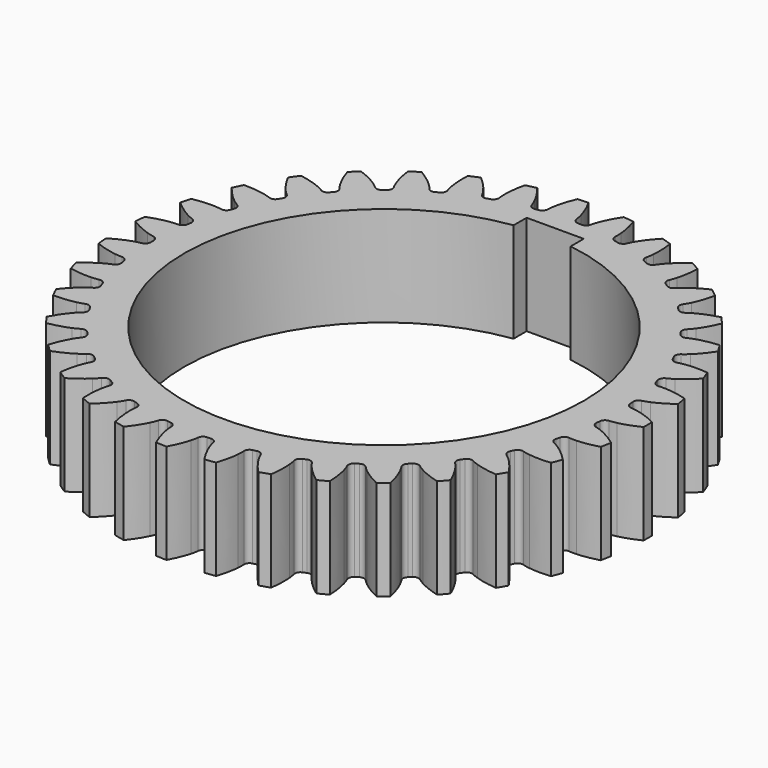
from build123d import *

# Parameters (mm, degrees)
PAD_DEPTH    = 7
POCKET_DEPTH = 7.001


with BuildPart() as part:
    # InvoluteGear001 → Pad (new body)
    with BuildSketch(Plane.XY):
        with BuildLine():
            add(Edge.make_bspline(
                [(16.555812, -0.978688), (16.663709, -0.971002), (16.832613, -0.950837), (17.060106, -0.899614)],
                knots=[0, 0, 0, 0, 1, 1, 1, 1], degree=3))
            add(Edge.make_bspline(
                [(17.060106, -0.899614), (17.412728, -0.820005), (17.899769, -0.667122), (18.496918, -0.374964)],
                knots=[0, 0, 0, 0, 1, 1, 1, 1], degree=3))
            ThreePointArc((18.496918, -0.374964), (18.500359, 0.000134), (18.496194, 0.375226))
            add(Edge.make_bspline(
                [(18.496194, 0.375226), (17.899769, 0.667122), (17.412728, 0.820005), (17.060106, 0.899614)],
                knots=[0, 0, 0, 0, 1, 1, 1, 1], degree=3))
            add(Edge.make_bspline(
                [(17.060106, 0.899614), (16.832613, 0.950837), (16.663709, 0.971002), (16.555944, 0.978673)],
                knots=[0, 0, 0, 0, 1, 1, 1, 1], degree=3))
            ThreePointArc((16.555944, 0.978673), (16.310062, 1.08527), (16.195676, 1.327626))
            ThreePointArc((16.195676, 1.327626), (16.184582, 1.456639), (16.172461, 1.585559))
            ThreePointArc((16.172461, 1.585559), (16.2417, 1.844387), (16.464505, 1.993194))
            add(Edge.make_bspline(
                [(16.464505, 1.993194), (16.569296, 2.020023), (16.731884, 2.070023), (16.946575, 2.161043)],
                knots=[0, 0, 0, 0, 1, 1, 1, 1], degree=3))
            add(Edge.make_bspline(
                [(16.946575, 2.161043), (17.279316, 2.302336), (17.731231, 2.539726), (18.266617, 2.933814)],
                knots=[0, 0, 0, 0, 1, 1, 1, 1], degree=3))
            ThreePointArc((18.266617, 2.933814), (18.203027, 3.303499), (18.131954, 3.671819))
            add(Edge.make_bspline(
                [(18.131954, 3.671819), (17.492993, 3.852528), (16.986481, 3.91599), (16.62531, 3.931356)],
                knots=[0, 0, 0, 0, 1, 1, 1, 1], degree=3))
            add(Edge.make_bspline(
                [(16.62531, 3.931356), (16.392327, 3.941135), (16.222537, 3.930818), (16.115134, 3.919123)],
                knots=[0, 0, 0, 0, 1, 1, 1, 1], degree=3))
            ThreePointArc((16.115134, 3.919123), (15.85417, 3.980103), (15.698348, 4.19814))
            ThreePointArc((15.698348, 4.19814), (15.664396, 4.323099), (15.629451, 4.447783))
            ThreePointArc((15.629451, 4.447783), (15.651361, 4.714814), (15.844015, 4.901014))
            add(Edge.make_bspline(
                [(15.844015, 4.901014), (15.942331, 4.946122), (16.093379, 5.02435), (16.288367, 5.152242)],
                knots=[0, 0, 0, 0, 1, 1, 1, 1], degree=3))
            add(Edge.make_bspline(
                [(16.288367, 5.152242), (16.590532, 5.350677), (16.992797, 5.664945), (17.449212, 6.148296)],
                knots=[0, 0, 0, 0, 1, 1, 1, 1], degree=3))
            ThreePointArc((17.449212, 6.148296), (17.320634, 6.500686), (17.184937, 6.850396))
            add(Edge.make_bspline(
                [(17.184937, 6.850396), (16.523978, 6.914111), (16.014274, 6.886111), (15.656164, 6.836741)],
                knots=[0, 0, 0, 0, 1, 1, 1, 1], degree=3))
            add(Edge.make_bspline(
                [(15.656164, 6.836741), (15.425179, 6.804763), (15.25996, 6.764294), (15.156371, 6.73361)],
                knots=[0, 0, 0, 0, 1, 1, 1, 1], degree=3))
            ThreePointArc((15.156371, 6.73361), (14.888712, 6.747013), (14.696462, 6.933722))
            ThreePointArc((14.696462, 6.933722), (14.640744, 7.050611), (14.584097, 7.167051))
            ThreePointArc((14.584097, 7.167051), (14.557975, 7.433704), (14.714286, 7.65131))
            add(Edge.make_bspline(
                [(14.714286, 7.65131), (14.802967, 7.713249), (14.937619, 7.81719), (15.106638, 7.977844)],
                knots=[0, 0, 0, 0, 1, 1, 1, 1], degree=3))
            add(Edge.make_bspline(
                [(15.106638, 7.977844), (15.368515, 8.227043), (15.708201, 8.608088), (16.070976, 9.165168)],
                knots=[0, 0, 0, 0, 1, 1, 1, 1], degree=3))
            ThreePointArc((16.070976, 9.165168), (15.881542, 9.488936), (15.685583, 9.808797))
            add(Edge.make_bspline(
                [(15.685583, 9.808797), (15.023868, 9.753468), (14.527356, 9.634908), (14.183816, 9.522388)],
                knots=[0, 0, 0, 0, 1, 1, 1, 1], degree=3))
            add(Edge.make_bspline(
                [(14.183816, 9.522388), (13.962253, 9.449679), (13.806915, 9.38036), (13.710469, 9.331672)],
                knots=[0, 0, 0, 0, 1, 1, 1, 1], degree=3))
            ThreePointArc((13.710469, 9.331672), (13.444719, 9.297068), (13.22222, 9.446449))
            ThreePointArc((13.22222, 9.446449), (13.146526, 9.55151), (13.069998, 9.655965))
            ThreePointArc((13.069998, 9.655965), (12.996683, 9.913668), (13.111627, 10.155688))
            add(Edge.make_bspline(
                [(13.111627, 10.155688), (13.187824, 10.232466), (13.301752, 10.35878), (13.439369, 10.547031)],
                knots=[0, 0, 0, 0, 1, 1, 1, 1], degree=3))
            add(Edge.make_bspline(
                [(13.439369, 10.547031), (13.652542, 10.838986), (13.91873, 11.27456), (14.176204, 11.887463)],
                knots=[0, 0, 0, 0, 1, 1, 1, 1], degree=3))
            ThreePointArc((14.176204, 11.887463), (13.932004, 12.172204), (13.682081, 12.451934))
            add(Edge.make_bspline(
                [(13.682081, 12.451934), (13.04088, 12.279341), (12.573516, 12.07403), (12.255588, 11.901977)],
                knots=[0, 0, 0, 0, 1, 1, 1, 1], degree=3))
            add(Edge.make_bspline(
                [(12.255588, 11.901977), (12.050568, 11.790876), (11.910104, 11.694933), (11.823902, 11.629807)],
                knots=[0, 0, 0, 0, 1, 1, 1, 1], degree=3))
            ThreePointArc((11.823902, 11.629807), (11.568601, 11.548307), (11.323005, 11.655559))
            ThreePointArc((11.323005, 11.655559), (11.229768, 11.745417), (11.135818, 11.834528))
            ThreePointArc((11.135818, 11.834528), (11.017668, 12.074998), (11.087549, 12.333653))
            add(Edge.make_bspline(
                [(11.087549, 12.333653), (11.148813, 12.422803), (11.238356, 12.56743), (11.340148, 12.777228)],
                knots=[0, 0, 0, 0, 1, 1, 1, 1], degree=3))
            add(Edge.make_bspline(
                [(11.340148, 12.777228), (11.497764, 13.102554), (11.6819, 13.578659), (11.825798, 14.227686)],
                knots=[0, 0, 0, 0, 1, 1, 1, 1], degree=3))
            ThreePointArc((11.825798, 14.227686), (11.53468, 14.464247), (11.238825, 14.694856))
            add(Edge.make_bspline(
                [(11.238825, 14.694856), (10.638746, 14.410546), (10.215553, 14.125084), (9.933456, 13.899027)],
                knots=[0, 0, 0, 0, 1, 1, 1, 1], degree=3))
            add(Edge.make_bspline(
                [(9.933456, 13.899027), (9.751568, 13.753103), (9.630493, 13.633622), (9.557305, 13.554151)],
                knots=[0, 0, 0, 0, 1, 1, 1, 1], degree=3))
            ThreePointArc((9.557305, 13.554151), (9.320659, 13.428375), (9.059859, 13.49005))
            ThreePointArc((9.059859, 13.49005), (8.952076, 13.561815), (8.843725, 13.632719))
            ThreePointArc((8.843725, 13.632719), (8.684535, 13.848229), (8.707109, 14.115205))
            add(Edge.make_bspline(
                [(8.707109, 14.115205), (8.75147, 14.213861), (8.81375, 14.372152), (8.876445, 14.596754)],
                knots=[0, 0, 0, 0, 1, 1, 1, 1], degree=3))
            add(Edge.make_bspline(
                [(8.876445, 14.596754), (8.973439, 14.944996), (9.069604, 15.446328), (9.095302, 16.110619)],
                knots=[0, 0, 0, 0, 1, 1, 1, 1], degree=3))
            ThreePointArc((9.095302, 16.110619), (8.766622, 16.291397), (8.434345, 16.465474))
            add(Edge.make_bspline(
                [(8.434345, 16.465474), (7.894675, 16.078584), (7.529254, 15.722145), (7.292054, 15.449351)],
                knots=[0, 0, 0, 0, 1, 1, 1, 1], degree=3))
            add(Edge.make_bspline(
                [(7.292054, 15.449351), (7.139145, 15.273295), (7.04135, 15.134115), (6.983528, 15.042853)],
                knots=[0, 0, 0, 0, 1, 1, 1, 1], degree=3))
            ThreePointArc((6.983528, 15.042853), (6.773143, 14.876843), (6.505522, 14.89096))
            ThreePointArc((6.505522, 14.89096), (6.386657, 14.942326), (6.267386, 14.992744))
            ThreePointArc((6.267386, 14.992744), (6.072274, 15.176366), (6.046815, 15.443082))
            add(Edge.make_bspline(
                [(6.046815, 15.443082), (6.072847, 15.548073), (6.105863, 15.714941), (6.127446, 15.947129)],
                knots=[0, 0, 0, 0, 1, 1, 1, 1], degree=3))
            add(Edge.make_bspline(
                [(6.127446, 15.947129), (6.1607, 16.307093), (6.165803, 16.81754), (6.072474, 17.475744)],
                knots=[0, 0, 0, 0, 1, 1, 1, 1], degree=3))
            ThreePointArc((6.072474, 17.475744), (5.716798, 17.594928), (5.358778, 17.706877))
            add(Edge.make_bspline(
                [(5.358778, 17.706877), (4.896862, 17.229844), (4.600958, 16.813884), (4.416279, 16.50312)],
                knots=[0, 0, 0, 0, 1, 1, 1, 1], degree=3))
            add(Edge.make_bspline(
                [(4.416279, 16.50312), (4.297264, 16.302591), (4.225892, 16.148185), (4.185295, 16.048065)],
                knots=[0, 0, 0, 0, 1, 1, 1, 1], degree=3))
            ThreePointArc((4.185295, 16.048065), (4.007933, 15.847157), (3.742092, 15.813262))
            ThreePointArc((3.742092, 15.813262), (3.615965, 15.842579), (3.489609, 15.870889))
            ThreePointArc((3.489609, 15.870889), (3.264846, 16.016722), (3.192172, 16.274606))
            add(Edge.make_bspline(
                [(3.192172, 16.274606), (3.199038, 16.382558), (3.201728, 16.55264), (3.181506, 16.784949)],
                knots=[0, 0, 0, 0, 1, 1, 1, 1], degree=3))
            add(Edge.make_bspline(
                [(3.181506, 16.784949), (3.149951, 17.145067), (3.063829, 17.648221), (2.854473, 18.279183)],
                knots=[0, 0, 0, 0, 1, 1, 1, 1], degree=3))
            ThreePointArc((2.854473, 18.279183), (2.483231, 18.332944), (2.110975, 18.379167))
            add(Edge.make_bspline(
                [(2.110975, 18.379167), (1.74166, 17.827321), (1.524784, 17.365211), (1.398562, 17.026466)],
                knots=[0, 0, 0, 0, 1, 1, 1, 1], degree=3))
            add(Edge.make_bspline(
                [(1.398562, 17.026466), (1.317265, 16.807907), (1.27461, 16.643239), (1.252542, 16.537479)],
                knots=[0, 0, 0, 0, 1, 1, 1, 1], degree=3))
            ThreePointArc((1.252542, 16.537479), (1.113905, 16.308131), (0.858388, 16.227312))
            ThreePointArc((0.858388, 16.227312), (0.729053, 16.233637), (0.599673, 16.238931))
            ThreePointArc((0.599673, 16.238931), (0.352482, 16.342287), (0.234929, 16.58305))
            add(Edge.make_bspline(
                [(0.234929, 16.58305), (0.22241, 16.690494), (0.194687, 16.858322), (0.133309, 17.083288)],
                knots=[0, 0, 0, 0, 1, 1, 1, 1], degree=3))
            add(Edge.make_bspline(
                [(0.133309, 17.083288), (0.03796, 17.431984), (-0.13662, 17.911675), (-0.455274, 18.495115)],
                knots=[0, 0, 0, 0, 1, 1, 1, 1], degree=3))
            ThreePointArc((-0.455274, 18.495115), (-0.83015, 18.481724), (-1.204676, 18.460735))
            add(Edge.make_bspline(
                [(-1.204676, 18.460735), (-1.46952, 17.851814), (-1.600398, 17.358405), (-1.664106, 17.002566)],
                knots=[0, 0, 0, 0, 1, 1, 1, 1], degree=3))
            add(Edge.make_bspline(
                [(-1.664106, 17.002566), (-1.705071, 16.773004), (-1.717639, 16.603366), (-1.720467, 16.495365)],
                knots=[0, 0, 0, 0, 1, 1, 1, 1], degree=3))
            ThreePointArc((-1.720467, 16.495365), (-1.815925, 16.244948), (-2.052905, 16.119804))
            ThreePointArc((-2.052905, 16.119804), (-2.181291, 16.102934), (-2.309537, 16.085041))
            ThreePointArc((-2.309537, 16.085041), (-2.571211, 16.142598), (-2.729864, 16.358502))
            add(Edge.make_bspline(
                [(-2.729864, 16.358502), (-2.761367, 16.461983), (-2.818612, 16.622165), (-2.919172, 16.832556)],
                knots=[0, 0, 0, 0, 1, 1, 1, 1], degree=3))
            add(Edge.make_bspline(
                [(-2.919172, 16.832556), (-3.075251, 17.158623), (-3.332677, 17.599433), (-3.750388, 18.116599)],
                knots=[0, 0, 0, 0, 1, 1, 1, 1], degree=3))
            ThreePointArc((-3.750388, 18.116599), (-4.116848, 18.036486), (-4.481608, 17.948961))
            add(Edge.make_bspline(
                [(-4.481608, 17.948961), (-4.633469, 17.302535), (-4.674142, 16.793686), (-4.673289, 16.43219)],
                knots=[0, 0, 0, 0, 1, 1, 1, 1], degree=3))
            add(Edge.make_bspline(
                [(-4.673289, 16.43219), (-4.672606, 16.199003), (-4.654681, 16.029847), (-4.63818, 15.923076)],
                knots=[0, 0, 0, 0, 1, 1, 1, 1], degree=3))
            ThreePointArc((-4.63818, 15.923076), (-4.68739, 15.659639), (-4.898216, 15.494192))
            ThreePointArc((-4.898216, 15.494192), (-5.021526, 15.454668), (-5.144517, 15.414164))
            ThreePointArc((-5.144517, 15.414164), (-5.412262, 15.424072), (-5.606918, 15.608178))
            add(Edge.make_bspline(
                [(-5.606918, 15.608178), (-5.656392, 15.704371), (-5.741317, 15.851757), (-5.877829, 16.040812)],
                knots=[0, 0, 0, 0, 1, 1, 1, 1], degree=3))
            add(Edge.make_bspline(
                [(-5.877829, 16.040812), (-6.089621, 16.333769), (-6.42162, 16.72153), (-6.924962, 17.1558)],
                knots=[0, 0, 0, 0, 1, 1, 1, 1], degree=3))
            ThreePointArc((-6.924962, 17.1558), (-7.271228, 17.011541), (-7.614498, 16.860291))
            add(Edge.make_bspline(
                [(-7.614498, 16.860291), (-7.648494, 16.197139), (-7.597655, 15.689205), (-7.532268, 15.33367)],
                knots=[0, 0, 0, 0, 1, 1, 1, 1], degree=3))
            add(Edge.make_bspline(
                [(-7.532268, 15.33367), (-7.489959, 15.104352), (-7.442118, 14.941115), (-7.406817, 14.839007)],
                knots=[0, 0, 0, 0, 1, 1, 1, 1], degree=3))
            ThreePointArc((-7.406817, 14.839007), (-7.408198, 14.571017), (-7.586095, 14.370583))
            ThreePointArc((-7.586095, 14.370583), (-7.700366, 14.309677), (-7.814148, 14.247863))
            ThreePointArc((-7.814148, 14.247863), (-8.079359, 14.209804), (-8.30376, 14.356195))
            add(Edge.make_bspline(
                [(-8.30376, 14.356195), (-8.369615, 14.442008), (-8.479493, 14.571861), (-8.647567, 14.733502)],
                knots=[0, 0, 0, 0, 1, 1, 1, 1], degree=3))
            add(Edge.make_bspline(
                [(-8.647567, 14.733502), (-8.908265, 14.983935), (-9.304166, 15.306184), (-9.876961, 15.643599)],
                knots=[0, 0, 0, 0, 1, 1, 1, 1], degree=3))
            ThreePointArc((-9.876961, 15.643599), (-10.191904, 15.439831), (-10.502651, 15.229718))
            add(Edge.make_bspline(
                [(-10.502651, 15.229718), (-10.417691, 14.571153), (-10.276973, 14.080459), (-10.149154, 13.742313)],
                knots=[0, 0, 0, 0, 1, 1, 1, 1], degree=3))
            add(Edge.make_bspline(
                [(-10.149154, 13.742313), (-10.066578, 13.524235), (-9.990359, 13.372164), (-9.937394, 13.278)],
                knots=[0, 0, 0, 0, 1, 1, 1, 1], degree=3))
            ThreePointArc((-9.937394, 13.278), (-9.890901, 13.01407), (-10.03015, 12.785093))
            ThreePointArc((-10.03015, 12.785093), (-10.131709, 12.704762), (-10.232625, 12.623624))
            ThreePointArc((-10.232625, 12.623624), (-10.486779, 12.538822), (-10.733713, 12.642791))
            add(Edge.make_bspline(
                [(-10.733713, 12.642791), (-10.813832, 12.715467), (-10.94513, 12.823614), (-11.139366, 12.952646)],
                knots=[0, 0, 0, 0, 1, 1, 1, 1], degree=3))
            add(Edge.make_bspline(
                [(-11.139366, 12.952646), (-11.440591, 13.152505), (-11.887669, 13.398884), (-12.511507, 13.628601)],
                knots=[0, 0, 0, 0, 1, 1, 1, 1], degree=3))
            ThreePointArc((-12.511507, 13.628601), (-12.785004, 13.371872), (-13.05324, 13.10965))
            add(Edge.make_bspline(
                [(-13.05324, 13.10965), (-12.852054, 12.476838), (-12.625981, 12.019156), (-12.439838, 11.709267)],
                knots=[0, 0, 0, 0, 1, 1, 1, 1], degree=3))
            add(Edge.make_bspline(
                [(-12.439838, 11.709267), (-12.31965, 11.509438), (-12.217502, 11.37342), (-12.148574, 11.290227)],
                knots=[0, 0, 0, 0, 1, 1, 1, 1], degree=3))
            ThreePointArc((-12.148574, 11.290227), (-12.055702, 11.03884), (-12.151828, 10.788678))
            ThreePointArc((-12.151828, 10.788678), (-12.237411, 10.691504), (-12.322218, 10.593651))
            ThreePointArc((-12.322218, 10.593651), (-12.557146, 10.464831), (-12.818675, 10.523038))
            add(Edge.make_bspline(
                [(-12.818675, 10.523038), (-12.910483, 10.58024), (-13.058982, 10.663204), (-13.273136, 10.755481)],
                knots=[0, 0, 0, 0, 1, 1, 1, 1], degree=3))
            add(Edge.make_bspline(
                [(-13.273136, 10.755481), (-13.605206, 10.898343), (-14.089093, 11.060933), (-14.743922, 11.175568)],
                knots=[0, 0, 0, 0, 1, 1, 1, 1], degree=3))
            ThreePointArc((-14.743922, 11.175568), (-14.967184, 10.87413), (-15.184288, 10.568226))
            add(Edge.make_bspline(
                [(-15.184288, 10.568226), (-14.873341, 9.981507), (-14.56918, 9.571547), (-14.330695, 9.299876)],
                knots=[0, 0, 0, 0, 1, 1, 1, 1], degree=3))
            add(Edge.make_bspline(
                [(-14.330695, 9.299876), (-14.176757, 9.124718), (-14.051965, 9.009125), (-13.96929, 8.939576)],
                knots=[0, 0, 0, 0, 1, 1, 1, 1], degree=3))
            ThreePointArc((-13.96929, 8.939576), (-13.833023, 8.708812), (-13.882936, 8.445507))
            ThreePointArc((-13.882936, 8.445507), (-13.949793, 8.334613), (-14.015764, 8.22319))
            ThreePointArc((-14.015764, 8.22319), (-14.223915, 8.054492), (-14.491635, 8.065065))
            add(Edge.make_bspline(
                [(-14.491635, 8.065065), (-14.592181, 8.104955), (-14.753107, 8.160071), (-14.980296, 8.212626)],
                knots=[0, 0, 0, 0, 1, 1, 1, 1], degree=3))
            add(Edge.make_bspline(
                [(-14.980296, 8.212626), (-15.332539, 8.293898), (-15.837681, 8.367475), (-16.502456, 8.363343)],
                knots=[0, 0, 0, 0, 1, 1, 1, 1], degree=3))
            ThreePointArc((-16.502456, 8.363343), (-16.668306, 8.026884), (-16.8273, 7.687131))
            add(Edge.make_bspline(
                [(-16.8273, 7.687131), (-16.416588, 7.165362), (-16.044113, 6.816301), (-15.760952, 6.591579)],
                knots=[0, 0, 0, 0, 1, 1, 1, 1], degree=3))
            add(Edge.make_bspline(
                [(-15.760952, 6.591579), (-15.578212, 6.446723), (-15.434785, 6.35527), (-15.34102, 6.301601)],
                knots=[0, 0, 0, 0, 1, 1, 1, 1], degree=3))
            ThreePointArc((-15.34102, 6.301601), (-15.165739, 6.098876), (-15.167835, 5.830891))
            ThreePointArc((-15.167835, 5.830891), (-15.213817, 5.709841), (-15.258832, 5.588429))
            ThreePointArc((-15.258832, 5.588429), (-15.433516, 5.385275), (-15.698821, 5.347875))
            add(Edge.make_bspline(
                [(-15.698821, 5.347875), (-15.804875, 5.36917), (-15.973056, 5.394666), (-16.205978, 5.405811)],
                knots=[0, 0, 0, 0, 1, 1, 1, 1], degree=3))
            add(Edge.make_bspline(
                [(-16.205978, 5.405811), (-16.567072, 5.422881), (-17.077233, 5.405079), (-17.730587, 5.282313)],
                knots=[0, 0, 0, 0, 1, 1, 1, 1], degree=3))
            ThreePointArc((-17.730587, 5.282313), (-17.833695, 4.921648), (-17.929468, 4.558966))
            add(Edge.make_bspline(
                [(-17.929468, 4.558966), (-17.432191, 4.118917), (-17.003375, 3.841973), (-16.684639, 3.671423)],
                knots=[0, 0, 0, 0, 1, 1, 1, 1], degree=3))
            add(Edge.make_bspline(
                [(-16.684639, 3.671423), (-16.478971, 3.561524), (-16.321519, 3.497151), (-16.219678, 3.461086)],
                knots=[0, 0, 0, 0, 1, 1, 1, 1], degree=3))
            ThreePointArc((-16.219678, 3.461086), (-16.011016, 3.292918), (-15.965227, 3.028864))
            ThreePointArc((-15.965227, 3.028864), (-15.988856, 2.90155), (-16.011469, 2.774051))
            ThreePointArc((-16.011469, 2.774051), (-16.147071, 2.542971), (-16.401435, 2.4588))
            add(Edge.make_bspline(
                [(-16.401435, 2.4588), (-16.509586, 2.460816), (-16.679617, 2.455873), (-16.910786, 2.425248)],
                knots=[0, 0, 0, 0, 1, 1, 1, 1], degree=3))
            add(Edge.make_bspline(
                [(-16.910786, 2.425248), (-17.269125, 2.377569), (-17.767909, 2.268959), (-18.388843, 2.031506)],
                knots=[0, 0, 0, 0, 1, 1, 1, 1], degree=3))
            ThreePointArc((-18.388843, 2.031506), (-18.425894, 1.658226), (-18.455369, 1.284271))
            add(Edge.make_bspline(
                [(-18.455369, 1.284271), (-17.88751, 0.940087), (-17.416134, 0.744161), (-17.072067, 0.633264)],
                knots=[0, 0, 0, 0, 1, 1, 1, 1], degree=3))
            add(Edge.make_bspline(
                [(-17.072067, 0.633264), (-16.850082, 0.561855), (-16.683666, 0.52663), (-16.577022, 0.50933)],
                knots=[0, 0, 0, 0, 1, 1, 1, 1], degree=3))
            ThreePointArc((-16.577022, 0.50933), (-16.341685, 0.381122), (-16.249484, 0.129488))
            ThreePointArc((-16.249484, 0.129488), (-16.25, 0), (-16.249484, -0.129488))
            ThreePointArc((-16.249484, -0.129488), (-16.341645, -0.381067), (-16.576892, -0.509303))
            add(Edge.make_bspline(
                [(-16.576892, -0.509303), (-16.683666, -0.52663), (-16.850082, -0.561855), (-17.072067, -0.633264)],
                knots=[0, 0, 0, 0, 1, 1, 1, 1], degree=3))
            add(Edge.make_bspline(
                [(-17.072067, -0.633264), (-17.416134, -0.744161), (-17.88751, -0.940087), (-18.456066, -1.284596)],
                knots=[0, 0, 0, 0, 1, 1, 1, 1], degree=3))
            ThreePointArc((-18.456066, -1.284596), (-18.42587, -1.658493), (-18.388099, -2.031701))
            add(Edge.make_bspline(
                [(-18.388099, -2.031701), (-17.767909, -2.268959), (-17.269125, -2.377569), (-16.910786, -2.425248)],
                knots=[0, 0, 0, 0, 1, 1, 1, 1], degree=3))
            add(Edge.make_bspline(
                [(-16.910786, -2.425248), (-16.679617, -2.455873), (-16.509586, -2.460816), (-16.401567, -2.458797)],
                knots=[0, 0, 0, 0, 1, 1, 1, 1], degree=3))
            ThreePointArc((-16.401567, -2.458797), (-16.14712, -2.542924), (-16.011469, -2.774051))
            ThreePointArc((-16.011469, -2.774051), (-15.988856, -2.90155), (-15.965227, -3.028864))
            ThreePointArc((-15.965227, -3.028864), (-16.010986, -3.292856), (-16.219555, -3.461037))
            add(Edge.make_bspline(
                [(-16.219555, -3.461037), (-16.321519, -3.497151), (-16.478971, -3.561524), (-16.684639, -3.671423)],
                knots=[0, 0, 0, 0, 1, 1, 1, 1], degree=3))
            add(Edge.make_bspline(
                [(-16.684639, -3.671423), (-17.003375, -3.841973), (-17.432191, -4.118917), (-17.930096, -4.55941)],
                knots=[0, 0, 0, 0, 1, 1, 1, 1], degree=3))
            ThreePointArc((-17.930096, -4.55941), (-17.833623, -4.921907), (-17.729821, -5.282373))
            add(Edge.make_bspline(
                [(-17.729821, -5.282373), (-17.077233, -5.405079), (-16.567072, -5.422881), (-16.205978, -5.405811)],
                knots=[0, 0, 0, 0, 1, 1, 1, 1], degree=3))
            add(Edge.make_bspline(
                [(-16.205978, -5.405811), (-15.973056, -5.394666), (-15.804875, -5.36917), (-15.698952, -5.347896)],
                knots=[0, 0, 0, 0, 1, 1, 1, 1], degree=3))
            ThreePointArc((-15.698952, -5.347896), (-15.433572, -5.385237), (-15.258832, -5.588429))
            ThreePointArc((-15.258832, -5.588429), (-15.213817, -5.709841), (-15.167835, -5.830891))
            ThreePointArc((-15.167835, -5.830891), (-15.165721, -6.098811), (-15.340908, -6.30153))
            add(Edge.make_bspline(
                [(-15.340908, -6.30153), (-15.434785, -6.35527), (-15.578212, -6.446723), (-15.760952, -6.591579)],
                knots=[0, 0, 0, 0, 1, 1, 1, 1], degree=3))
            add(Edge.make_bspline(
                [(-15.760952, -6.591579), (-16.044113, -6.816301), (-16.416588, -7.165362), (-16.827838, -7.687681)],
                knots=[0, 0, 0, 0, 1, 1, 1, 1], degree=3))
            ThreePointArc((-16.827838, -7.687681), (-16.668189, -8.027126), (-16.501691, -8.363265))
            add(Edge.make_bspline(
                [(-16.501691, -8.363265), (-15.837681, -8.367475), (-15.332539, -8.293898), (-14.980296, -8.212626)],
                knots=[0, 0, 0, 0, 1, 1, 1, 1], degree=3))
            add(Edge.make_bspline(
                [(-14.980296, -8.212626), (-14.753107, -8.160071), (-14.592181, -8.104955), (-14.49176, -8.065109)],
                knots=[0, 0, 0, 0, 1, 1, 1, 1], degree=3))
            ThreePointArc((-14.49176, -8.065109), (-14.223977, -8.054465), (-14.015764, -8.22319))
            ThreePointArc((-14.015764, -8.22319), (-13.949793, -8.334613), (-13.882936, -8.445507))
            ThreePointArc((-13.882936, -8.445507), (-13.833017, -8.708744), (-13.969192, -8.939487))
            add(Edge.make_bspline(
                [(-13.969192, -8.939487), (-14.051965, -9.009125), (-14.176757, -9.124718), (-14.330695, -9.299876)],
                knots=[0, 0, 0, 0, 1, 1, 1, 1], degree=3))
            add(Edge.make_bspline(
                [(-14.330695, -9.299876), (-14.56918, -9.571547), (-14.873341, -9.981507), (-15.184719, -10.568863)],
                knots=[0, 0, 0, 0, 1, 1, 1, 1], degree=3))
            ThreePointArc((-15.184719, -10.568863), (-14.967026, -10.874347), (-14.743184, -11.175354))
            add(Edge.make_bspline(
                [(-14.743184, -11.175354), (-14.089093, -11.060933), (-13.605206, -10.898343), (-13.273136, -10.755481)],
                knots=[0, 0, 0, 0, 1, 1, 1, 1], degree=3))
            add(Edge.make_bspline(
                [(-13.273136, -10.755481), (-13.058982, -10.663204), (-12.910483, -10.58024), (-12.81879, -10.523103)],
                knots=[0, 0, 0, 0, 1, 1, 1, 1], degree=3))
            ThreePointArc((-12.81879, -10.523103), (-12.557212, -10.464816), (-12.322218, -10.593651))
            ThreePointArc((-12.322218, -10.593651), (-12.237411, -10.691504), (-12.151828, -10.788678))
            ThreePointArc((-12.151828, -10.788678), (-12.055708, -11.038772), (-12.148494, -11.290121))
            add(Edge.make_bspline(
                [(-12.148494, -11.290121), (-12.217502, -11.37342), (-12.31965, -11.509438), (-12.439838, -11.709267)],
                knots=[0, 0, 0, 0, 1, 1, 1, 1], degree=3))
            add(Edge.make_bspline(
                [(-12.439838, -11.709267), (-12.625981, -12.019156), (-12.852054, -12.476838), (-13.053551, -13.110353)],
                knots=[0, 0, 0, 0, 1, 1, 1, 1], degree=3))
            ThreePointArc((-13.053551, -13.110353), (-12.78481, -13.372057), (-12.510818, -13.628259))
            add(Edge.make_bspline(
                [(-12.510818, -13.628259), (-11.887669, -13.398884), (-11.440591, -13.152505), (-11.139366, -12.952646)],
                knots=[0, 0, 0, 0, 1, 1, 1, 1], degree=3))
            add(Edge.make_bspline(
                [(-11.139366, -12.952646), (-10.94513, -12.823614), (-10.813832, -12.715467), (-10.733814, -12.642876)],
                knots=[0, 0, 0, 0, 1, 1, 1, 1], degree=3))
            ThreePointArc((-10.733814, -12.642876), (-10.486847, -12.538818), (-10.232625, -12.623624))
            ThreePointArc((-10.232625, -12.623624), (-10.131709, -12.704762), (-10.03015, -12.785093))
            ThreePointArc((-10.03015, -12.785093), (-9.890919, -13.014004), (-9.937334, -13.277882))
            add(Edge.make_bspline(
                [(-9.937334, -13.277882), (-9.990359, -13.372164), (-10.066578, -13.524235), (-10.149154, -13.742313)],
                knots=[0, 0, 0, 0, 1, 1, 1, 1], degree=3))
            add(Edge.make_bspline(
                [(-10.149154, -13.742313), (-10.276973, -14.080459), (-10.417691, -14.571153), (-10.502831, -15.230466)],
                knots=[0, 0, 0, 0, 1, 1, 1, 1], degree=3))
            ThreePointArc((-10.502831, -15.230466), (-10.19168, -15.439979), (-9.876344, -15.64314))
            add(Edge.make_bspline(
                [(-9.876344, -15.64314), (-9.304166, -15.306184), (-8.908265, -14.983935), (-8.647567, -14.733502)],
                knots=[0, 0, 0, 0, 1, 1, 1, 1], degree=3))
            add(Edge.make_bspline(
                [(-8.647567, -14.733502), (-8.479493, -14.571861), (-8.369615, -14.442008), (-8.303845, -14.356296)],
                knots=[0, 0, 0, 0, 1, 1, 1, 1], degree=3))
            ThreePointArc((-8.303845, -14.356296), (-8.079427, -14.209813), (-7.814148, -14.247863))
            ThreePointArc((-7.814148, -14.247863), (-7.700366, -14.309677), (-7.586095, -14.370583))
            ThreePointArc((-7.586095, -14.370583), (-7.408228, -14.570956), (-7.40678, -14.83888))
            add(Edge.make_bspline(
                [(-7.40678, -14.83888), (-7.442118, -14.941115), (-7.489959, -15.104352), (-7.532268, -15.33367)],
                knots=[0, 0, 0, 0, 1, 1, 1, 1], degree=3))
            add(Edge.make_bspline(
                [(-7.532268, -15.33367), (-7.597655, -15.689205), (-7.648494, -16.197139), (-7.614542, -16.861059)],
                knots=[0, 0, 0, 0, 1, 1, 1, 1], degree=3))
            ThreePointArc((-7.614542, -16.861059), (-7.270981, -17.011647), (-6.924437, -17.155237))
            add(Edge.make_bspline(
                [(-6.924437, -17.155237), (-6.42162, -16.72153), (-6.089621, -16.333769), (-5.877829, -16.040812)],
                knots=[0, 0, 0, 0, 1, 1, 1, 1], degree=3))
            add(Edge.make_bspline(
                [(-5.877829, -16.040812), (-5.741317, -15.851757), (-5.656392, -15.704371), (-5.606983, -15.608293)],
                knots=[0, 0, 0, 0, 1, 1, 1, 1], degree=3))
            ThreePointArc((-5.606983, -15.608293), (-5.412327, -15.424093), (-5.144517, -15.414164))
            ThreePointArc((-5.144517, -15.414164), (-5.021526, -15.454668), (-4.898216, -15.494192))
            ThreePointArc((-4.898216, -15.494192), (-4.68743, -15.659585), (-4.638165, -15.922945))
            add(Edge.make_bspline(
                [(-4.638165, -15.922945), (-4.654681, -16.029847), (-4.672606, -16.199003), (-4.673289, -16.43219)],
                knots=[0, 0, 0, 0, 1, 1, 1, 1], degree=3))
            add(Edge.make_bspline(
                [(-4.673289, -16.43219), (-4.674142, -16.793686), (-4.633469, -17.302535), (-4.481515, -17.949724)],
                knots=[0, 0, 0, 0, 1, 1, 1, 1], degree=3))
            ThreePointArc((-4.481515, -17.949724), (-4.116586, -18.036546), (-3.749973, -18.115952))
            add(Edge.make_bspline(
                [(-3.749973, -18.115952), (-3.332677, -17.599433), (-3.075251, -17.158623), (-2.919172, -16.832556)],
                knots=[0, 0, 0, 0, 1, 1, 1, 1], degree=3))
            add(Edge.make_bspline(
                [(-2.919172, -16.832556), (-2.818612, -16.622165), (-2.761367, -16.461983), (-2.729908, -16.358627)],
                knots=[0, 0, 0, 0, 1, 1, 1, 1], degree=3))
            ThreePointArc((-2.729908, -16.358627), (-2.57127, -16.14263), (-2.309537, -16.085041))
            ThreePointArc((-2.309537, -16.085041), (-2.181291, -16.102934), (-2.052905, -16.119804))
            ThreePointArc((-2.052905, -16.119804), (-1.815974, -16.244901), (-1.720477, -16.495233))
            add(Edge.make_bspline(
                [(-1.720477, -16.495233), (-1.717639, -16.603366), (-1.705071, -16.773004), (-1.664106, -17.002566)],
                knots=[0, 0, 0, 0, 1, 1, 1, 1], degree=3))
            add(Edge.make_bspline(
                [(-1.664106, -17.002566), (-1.600398, -17.358405), (-1.46952, -17.851814), (-1.204448, -18.46147)],
                knots=[0, 0, 0, 0, 1, 1, 1, 1], degree=3))
            ThreePointArc((-1.204448, -18.46147), (-0.829881, -18.481736), (-0.454981, -18.494404))
            add(Edge.make_bspline(
                [(-0.454981, -18.494404), (-0.13662, -17.911675), (0.03796, -17.431984), (0.133309, -17.083288)],
                knots=[0, 0, 0, 0, 1, 1, 1, 1], degree=3))
            add(Edge.make_bspline(
                [(0.133309, -17.083288), (0.194687, -16.858322), (0.22241, -16.690494), (0.234908, -16.583181)],
                knots=[0, 0, 0, 0, 1, 1, 1, 1], degree=3))
            ThreePointArc((0.234908, -16.583181), (0.352429, -16.342329), (0.599673, -16.238931))
            ThreePointArc((0.599673, -16.238931), (0.729053, -16.233637), (0.858388, -16.227312))
            ThreePointArc((0.858388, -16.227312), (1.113848, -16.308094), (1.25251, -16.537351))
            add(Edge.make_bspline(
                [(1.25251, -16.537351), (1.27461, -16.643239), (1.317265, -16.807907), (1.398562, -17.026466)],
                knots=[0, 0, 0, 0, 1, 1, 1, 1], degree=3))
            add(Edge.make_bspline(
                [(1.398562, -17.026466), (1.524784, -17.365211), (1.74166, -17.827321), (2.111331, -18.379849)],
                knots=[0, 0, 0, 0, 1, 1, 1, 1], degree=3))
            ThreePointArc((2.111331, -18.379849), (2.483497, -18.332908), (2.854634, -18.278432))
            add(Edge.make_bspline(
                [(2.854634, -18.278432), (3.063829, -17.648221), (3.149951, -17.145067), (3.181506, -16.784949)],
                knots=[0, 0, 0, 0, 1, 1, 1, 1], degree=3))
            add(Edge.make_bspline(
                [(3.181506, -16.784949), (3.201728, -16.55264), (3.199038, -16.382558), (3.192174, -16.274738)],
                knots=[0, 0, 0, 0, 1, 1, 1, 1], degree=3))
            ThreePointArc((3.192174, -16.274738), (3.264801, -16.016773), (3.489609, -15.870889))
            ThreePointArc((3.489609, -15.870889), (3.615965, -15.842579), (3.742092, -15.813262))
            ThreePointArc((3.742092, -15.813262), (4.007871, -15.847131), (4.185239, -16.047944))
            add(Edge.make_bspline(
                [(4.185239, -16.047944), (4.225892, -16.148185), (4.297264, -16.302591), (4.416279, -16.50312)],
                knots=[0, 0, 0, 0, 1, 1, 1, 1], degree=3))
            add(Edge.make_bspline(
                [(4.416279, -16.50312), (4.600958, -16.813884), (4.896862, -17.229844), (5.35925, -17.707484)],
                knots=[0, 0, 0, 0, 1, 1, 1, 1], degree=3))
            ThreePointArc((5.35925, -17.707484), (5.717053, -17.594845), (6.072499, -17.474975))
            add(Edge.make_bspline(
                [(6.072499, -17.474975), (6.165803, -16.81754), (6.1607, -16.307093), (6.127446, -15.947129)],
                knots=[0, 0, 0, 0, 1, 1, 1, 1], degree=3))
            add(Edge.make_bspline(
                [(6.127446, -15.947129), (6.105863, -15.714941), (6.072847, -15.548073), (6.046841, -15.443212)],
                knots=[0, 0, 0, 0, 1, 1, 1, 1], degree=3))
            ThreePointArc((6.046841, -15.443212), (6.072239, -15.176424), (6.267386, -14.992744))
            ThreePointArc((6.267386, -14.992744), (6.386657, -14.942326), (6.505522, -14.89096))
            ThreePointArc((6.505522, -14.89096), (6.773077, -14.876828), (6.983452, -15.042744))
            add(Edge.make_bspline(
                [(6.983452, -15.042744), (7.04135, -15.134115), (7.139145, -15.273295), (7.292054, -15.449351)],
                knots=[0, 0, 0, 0, 1, 1, 1, 1], degree=3))
            add(Edge.make_bspline(
                [(7.292054, -15.449351), (7.529254, -15.722145), (7.894675, -16.078584), (8.434918, -16.465987)],
                knots=[0, 0, 0, 0, 1, 1, 1, 1], degree=3))
            ThreePointArc((8.434918, -16.465987), (8.766859, -16.29127), (9.095189, -16.109858))
            add(Edge.make_bspline(
                [(9.095189, -16.109858), (9.069604, -15.446328), (8.973439, -14.944996), (8.876445, -14.596754)],
                knots=[0, 0, 0, 0, 1, 1, 1, 1], degree=3))
            add(Edge.make_bspline(
                [(8.876445, -14.596754), (8.81375, -14.372152), (8.75147, -14.213861), (8.707158, -14.115328)],
                knots=[0, 0, 0, 0, 1, 1, 1, 1], degree=3))
            ThreePointArc((8.707158, -14.115328), (8.684511, -13.848292), (8.843725, -13.632719))
            ThreePointArc((8.843725, -13.632719), (8.952076, -13.561815), (9.059859, -13.49005))
            ThreePointArc((9.059859, -13.49005), (9.320591, -13.428372), (9.557211, -13.554057))
            add(Edge.make_bspline(
                [(9.557211, -13.554057), (9.630493, -13.633622), (9.751568, -13.753103), (9.933456, -13.899027)],
                knots=[0, 0, 0, 0, 1, 1, 1, 1], degree=3))
            add(Edge.make_bspline(
                [(9.933456, -13.899027), (10.215553, -14.125084), (10.638746, -14.410546), (11.239481, -14.695259)],
                knots=[0, 0, 0, 0, 1, 1, 1, 1], degree=3))
            ThreePointArc((11.239481, -14.695259), (11.53489, -14.464079), (11.825552, -14.226958))
            add(Edge.make_bspline(
                [(11.825552, -14.226958), (11.6819, -13.578659), (11.497764, -13.102554), (11.340148, -12.777228)],
                knots=[0, 0, 0, 0, 1, 1, 1, 1], degree=3))
            add(Edge.make_bspline(
                [(11.340148, -12.777228), (11.238356, -12.56743), (11.148813, -12.422803), (11.08762, -12.333765)],
                knots=[0, 0, 0, 0, 1, 1, 1, 1], degree=3))
            ThreePointArc((11.08762, -12.333765), (11.017655, -12.075065), (11.135818, -11.834528))
            ThreePointArc((11.135818, -11.834528), (11.229768, -11.745417), (11.323005, -11.655559))
            ThreePointArc((11.323005, -11.655559), (11.568534, -11.548316), (11.823793, -11.629732))
            add(Edge.make_bspline(
                [(11.823793, -11.629732), (11.910104, -11.694933), (12.050568, -11.790876), (12.255588, -11.901977)],
                knots=[0, 0, 0, 0, 1, 1, 1, 1], degree=3))
            add(Edge.make_bspline(
                [(12.255588, -11.901977), (12.573516, -12.07403), (13.04088, -12.279341), (13.682797, -12.452213)],
                knots=[0, 0, 0, 0, 1, 1, 1, 1], degree=3))
            ThreePointArc((13.682797, -12.452213), (13.932181, -12.172002), (14.175832, -11.886791))
            add(Edge.make_bspline(
                [(14.175832, -11.886791), (13.91873, -11.27456), (13.652542, -10.838986), (13.439369, -10.547031)],
                knots=[0, 0, 0, 0, 1, 1, 1, 1], degree=3))
            add(Edge.make_bspline(
                [(13.439369, -10.547031), (13.301752, -10.35878), (13.187824, -10.232466), (13.111716, -10.155786)],
                knots=[0, 0, 0, 0, 1, 1, 1, 1], degree=3))
            ThreePointArc((13.111716, -10.155786), (12.996683, -9.913736), (13.069998, -9.655965))
            ThreePointArc((13.069998, -9.655965), (13.146526, -9.55151), (13.22222, -9.446449))
            ThreePointArc((13.22222, -9.446449), (13.444654, -9.297089), (13.710349, -9.331618))
            add(Edge.make_bspline(
                [(13.710349, -9.331618), (13.806915, -9.38036), (13.962253, -9.449679), (14.183816, -9.522388)],
                knots=[0, 0, 0, 0, 1, 1, 1, 1], degree=3))
            add(Edge.make_bspline(
                [(14.183816, -9.522388), (14.527356, -9.634908), (15.023868, -9.753468), (15.686338, -9.808943)],
                knots=[0, 0, 0, 0, 1, 1, 1, 1], degree=3))
            ThreePointArc((15.686338, -9.808943), (15.88168, -9.488705), (16.070489, -9.164573))
            add(Edge.make_bspline(
                [(16.070489, -9.164573), (15.708201, -8.608088), (15.368515, -8.227043), (15.106638, -7.977844)],
                knots=[0, 0, 0, 0, 1, 1, 1, 1], degree=3))
            add(Edge.make_bspline(
                [(15.106638, -7.977844), (14.937619, -7.81719), (14.802967, -7.713249), (14.714391, -7.651391)],
                knots=[0, 0, 0, 0, 1, 1, 1, 1], degree=3))
            ThreePointArc((14.714391, -7.651391), (14.557987, -7.43377), (14.584097, -7.167051))
            ThreePointArc((14.584097, -7.167051), (14.640744, -7.050611), (14.696462, -6.933722))
            ThreePointArc((14.696462, -6.933722), (14.888652, -6.747045), (15.156242, -6.733578))
            add(Edge.make_bspline(
                [(15.156242, -6.733578), (15.25996, -6.764294), (15.425179, -6.804763), (15.656164, -6.836741)],
                knots=[0, 0, 0, 0, 1, 1, 1, 1], degree=3))
            add(Edge.make_bspline(
                [(15.656164, -6.836741), (16.014274, -6.886111), (16.523978, -6.914111), (17.185706, -6.850406)],
                knots=[0, 0, 0, 0, 1, 1, 1, 1], degree=3))
            ThreePointArc((17.185706, -6.850406), (17.320728, -6.500435), (17.448627, -6.147798))
            add(Edge.make_bspline(
                [(17.448627, -6.147798), (16.992797, -5.664945), (16.590532, -5.350677), (16.288367, -5.152242)],
                knots=[0, 0, 0, 0, 1, 1, 1, 1], degree=3))
            add(Edge.make_bspline(
                [(16.288367, -5.152242), (16.093379, -5.02435), (15.942331, -4.946122), (15.844133, -4.901074)],
                knots=[0, 0, 0, 0, 1, 1, 1, 1], degree=3))
            ThreePointArc((15.844133, -4.901074), (15.651385, -4.714878), (15.629451, -4.447783))
            ThreePointArc((15.629451, -4.447783), (15.664396, -4.323099), (15.698348, -4.19814))
            ThreePointArc((15.698348, -4.19814), (15.854117, -3.980146), (16.115002, -3.919115))
            add(Edge.make_bspline(
                [(16.115002, -3.919115), (16.222537, -3.930818), (16.392327, -3.941135), (16.62531, -3.931356)],
                knots=[0, 0, 0, 0, 1, 1, 1, 1], degree=3))
            add(Edge.make_bspline(
                [(16.62531, -3.931356), (16.986481, -3.91599), (17.492993, -3.852528), (18.132712, -3.671691)],
                knots=[0, 0, 0, 0, 1, 1, 1, 1], degree=3))
            ThreePointArc((18.132712, -3.671691), (18.203075, -3.303235), (18.265952, -2.933427))
            add(Edge.make_bspline(
                [(18.265952, -2.933427), (17.731231, -2.539726), (17.279316, -2.302336), (16.946575, -2.161043)],
                knots=[0, 0, 0, 0, 1, 1, 1, 1], degree=3))
            add(Edge.make_bspline(
                [(16.946575, -2.161043), (16.731884, -2.070023), (16.569296, -2.020023), (16.464632, -1.993232)],
                knots=[0, 0, 0, 0, 1, 1, 1, 1], degree=3))
            ThreePointArc((16.464632, -1.993232), (16.241735, -1.844445), (16.172461, -1.585559))
            ThreePointArc((16.172461, -1.585559), (16.184582, -1.456639), (16.195676, -1.327626))
            ThreePointArc((16.195676, -1.327626), (16.310017, -1.085321), (16.555812, -0.978688))
        make_face()
    extrude(amount=PAD_DEPTH)

    # Sketch001 → Pocket (cut, through all)
    with BuildSketch(Plane.XY.offset(7)):
        with BuildLine():
            ThreePointArc((-2, 13.856406), (0, -14), (2, 13.856406))
            Line((2, 15), (2, 13.856406))
            Line((-2, 15), (2, 15))
            Line((-2, 15), (-2, 13.856406))
        make_face()
    extrude(amount=-POCKET_DEPTH, mode=Mode.SUBTRACT)


solid = part.part
